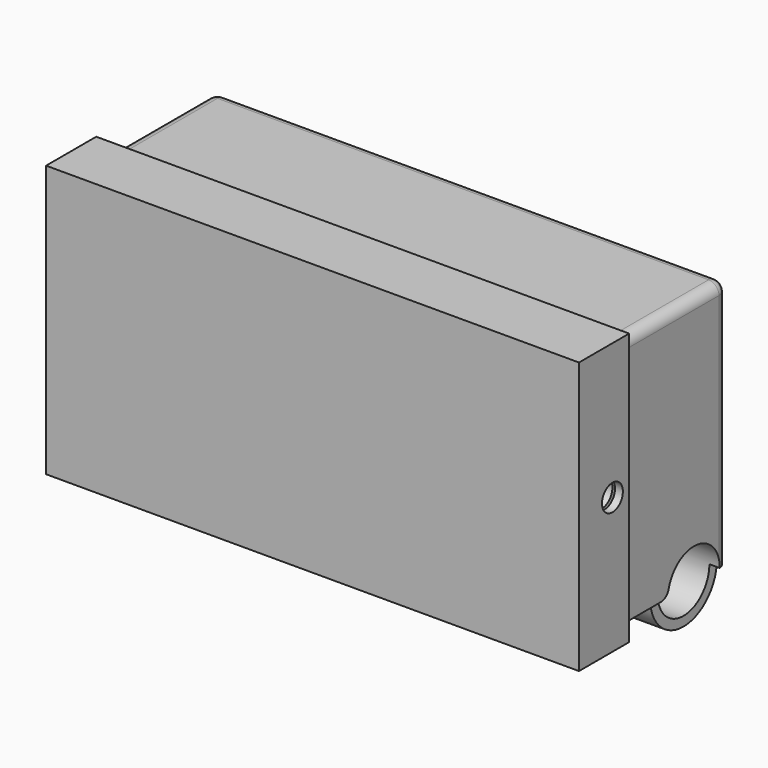
from build123d import *

# Parameters (mm, degrees)
CYLINDER005_R           = 2
CYLINDER005_DEPTH       = 10
CYLINDER004_R           = 1.25
CYLINDER004_DEPTH       = 50
CYLINDER004_PITCH_ANGLE = 90
BOX002_W                = 48
BOX002_H                = 3
BOX002_DEPTH            = 0.5
CYLINDER002_R           = 3.1
CYLINDER002_DEPTH       = 50
CYLINDER002_PITCH_ANGLE = 90
CYLINDER001_R           = 8.5
CYLINDER001_DEPTH       = 20
CYLINDER001_ROLL_ANGLE  = 90
CYLINDER_R              = 8.5
CYLINDER_DEPTH          = 20
CYLINDER_ROLL_ANGLE     = 90
BOX001_W                = 47
BOX001_H                = 16
BOX001_DEPTH            = 22
BOX_W                   = 49
BOX_H                   = 18
BOX_DEPTH               = 24
CYLINDER003_R           = 4
CYLINDER003_DEPTH       = 47
CYLINDER003_PITCH_ANGLE = 90
FILLET_R                = 1
CYLINDER006_R           = 1.25
CYLINDER006_DEPTH       = 60
CYLINDER006_PITCH_ANGLE = 90
BOX003_W                = 49.5
BOX003_H                = 18
BOX003_DEPTH            = 24.5
BOX004_W                = 51
BOX004_H                = 6
BOX004_DEPTH            = 26


with BuildPart() as cylinder003:
    # Cylinder005 → Cylinder005 (new body)
    with BuildSketch(Plane(origin=(0, -2, -17), x_dir=(1, 0, 0), z_dir=(0, 0, 1))):
        Circle(CYLINDER005_R)
    extrude(amount=CYLINDER005_DEPTH)


with BuildPart() as cylinder002:
    # Cylinder004 → Cylinder004 (new body)
    with BuildSketch(Plane.XY):
        Circle(CYLINDER004_R)
    extrude(amount=CYLINDER004_DEPTH)


with BuildPart() as cylinder002_1:
    # Cylinder004 pitch: moved
    add(cylinder002.part.rotate(Axis((0, 0, 0), (0, 1, 0)), CYLINDER004_PITCH_ANGLE))


with BuildPart() as cylinder002_2:
    # Cylinder004 placement: moved
    add(cylinder002_1.part.moved(Location((-25, -6, 0))))


with BuildPart() as cube:
    # Box002 → Box002 (new body)
    with BuildSketch(Plane(origin=(-24, 0, -12.5), x_dir=(1, 0, 0), z_dir=(0, 0, 1))):
        with Locations((24, 1.5)):
            Rectangle(BOX002_W, BOX002_H)
    extrude(amount=BOX002_DEPTH)


with BuildPart() as cylinder:
    # Cylinder002 → Cylinder002 (new body)
    with BuildSketch(Plane.XY):
        Circle(CYLINDER002_R)
    extrude(amount=CYLINDER002_DEPTH)


with BuildPart() as cylinder_1:
    # Cylinder002 pitch: moved
    add(cylinder.part.rotate(Axis((0, 0, 0), (0, 1, 0)), CYLINDER002_PITCH_ANGLE))


with BuildPart() as cylinder_2:
    # Cylinder002 placement: moved
    add(cylinder_1.part.moved(Location((-25, 5, -12))))


with BuildPart() as obj1:
    # Cylinder001 → Cylinder001 (new body)
    with BuildSketch(Plane.XY):
        Circle(CYLINDER001_R)
    extrude(amount=CYLINDER001_DEPTH)


with BuildPart() as obj1_1:
    # Cylinder001 roll: moved
    add(obj1.part.rotate(Axis((0, 0, 0), (1, 0, 0)), CYLINDER001_ROLL_ANGLE))


with BuildPart() as obj1_2:
    # Cylinder001 placement: moved
    add(obj1_1.part.moved(Location((13, 10, 0))))


with BuildPart() as obj2:
    # Cylinder → Cylinder (new body)
    with BuildSketch(Plane.XY):
        Circle(CYLINDER_R)
    extrude(amount=CYLINDER_DEPTH)


with BuildPart() as obj2_1:
    # Cylinder roll: moved
    add(obj2.part.rotate(Axis((0, 0, 0), (1, 0, 0)), CYLINDER_ROLL_ANGLE))


with BuildPart() as obj2_2:
    # Cylinder placement: moved
    add(obj2_1.part.moved(Location((-13, 10, 0))))

    # Fusion: union obj1
    add(obj1_2.part)


with BuildPart() as obj3:
    # Box001 → Box001 (new body)
    with BuildSketch(Plane(origin=(-23.5, -10, -11), x_dir=(1, 0, 0), z_dir=(0, 0, 1))):
        with Locations((23.5, 8)):
            Rectangle(BOX001_W, BOX001_H)
    extrude(amount=BOX001_DEPTH)


with BuildPart() as cut001:
    # Box → Box (new body)
    with BuildSketch(Plane(origin=(-24.5, -9, -12), x_dir=(1, 0, 0), z_dir=(0, 0, 1))):
        with Locations((24.5, 9)):
            Rectangle(BOX_W, BOX_H)
    extrude(amount=BOX_DEPTH)

    # Cut: cut obj3
    add(obj3.part, mode=Mode.SUBTRACT)

    # Cut001: cut obj2
    add(obj2_2.part, mode=Mode.SUBTRACT)


with BuildPart() as fillet_body:
    # Cylinder003 → Cylinder003 (new body)
    with BuildSketch(Plane.XY):
        Circle(CYLINDER003_R)
    extrude(amount=CYLINDER003_DEPTH)


with BuildPart() as fillet_body_1:
    # Cylinder003 pitch: moved
    add(fillet_body.part.rotate(Axis((0, 0, 0), (0, 1, 0)), CYLINDER003_PITCH_ANGLE))


with BuildPart() as fillet_body_2:
    # Cylinder003 placement: moved
    add(fillet_body_1.part.moved(Location((-23.5, 5, -12))))

    # Fusion001: union Cut001
    add(cut001.part)

    # Cut002: cut Cylinder
    add(cylinder_2.part, mode=Mode.SUBTRACT)

    # Cut003: cut Cube
    add(cube.part, mode=Mode.SUBTRACT)

    # Cut004: cut Cylinder002
    add(cylinder002_2.part, mode=Mode.SUBTRACT)

    # Cut005: cut Cylinder003
    add(cylinder003.part, mode=Mode.SUBTRACT)

    # Fillet
    fillet_edges = [fillet_body_2.edges().sort_by_distance(p)[0] for p in [
        (-24.5, 0, 12),
        (-24.5, 9, 0),
        (-24.5, -3.55, -12),
        (0, 9, 12),
        (24.5, 0, 12),
        (24.5, 9, 0),
        (0, 1.9, -12),
    ]]
    fillet(fillet_edges, radius=FILLET_R)


with BuildPart() as cylinder004:
    # Cylinder006 → Cylinder006 (new body)
    with BuildSketch(Plane.XY):
        Circle(CYLINDER006_R)
    extrude(amount=CYLINDER006_DEPTH)


with BuildPart() as cylinder004_1:
    # Cylinder006 pitch: moved
    add(cylinder004.part.rotate(Axis((0, 0, 0), (0, 1, 0)), CYLINDER006_PITCH_ANGLE))


with BuildPart() as cylinder004_2:
    # Cylinder006 placement: moved
    add(cylinder004_1.part.moved(Location((-30, -6, 0))))


with BuildPart() as base001:
    # Box003 → Box003 (new body)
    with BuildSketch(Plane(origin=(-24.75, -9, -12.25), x_dir=(1, 0, 0), z_dir=(0, 0, 1))):
        with Locations((24.75, 9)):
            Rectangle(BOX003_W, BOX003_H)
    extrude(amount=BOX003_DEPTH)


with BuildPart() as cover:
    # Box004 → Box004 (new body)
    with BuildSketch(Plane(origin=(-25.5, -10, -13), x_dir=(1, 0, 0), z_dir=(0, 0, 1))):
        with Locations((25.5, 3)):
            Rectangle(BOX004_W, BOX004_H)
    extrude(amount=BOX004_DEPTH)

    # Cut006: cut base001
    add(base001.part, mode=Mode.SUBTRACT)

    # Cut007: cut Cylinder004
    add(cylinder004_2.part, mode=Mode.SUBTRACT)


solid = Compound([fillet_body_2.part, cover.part])
